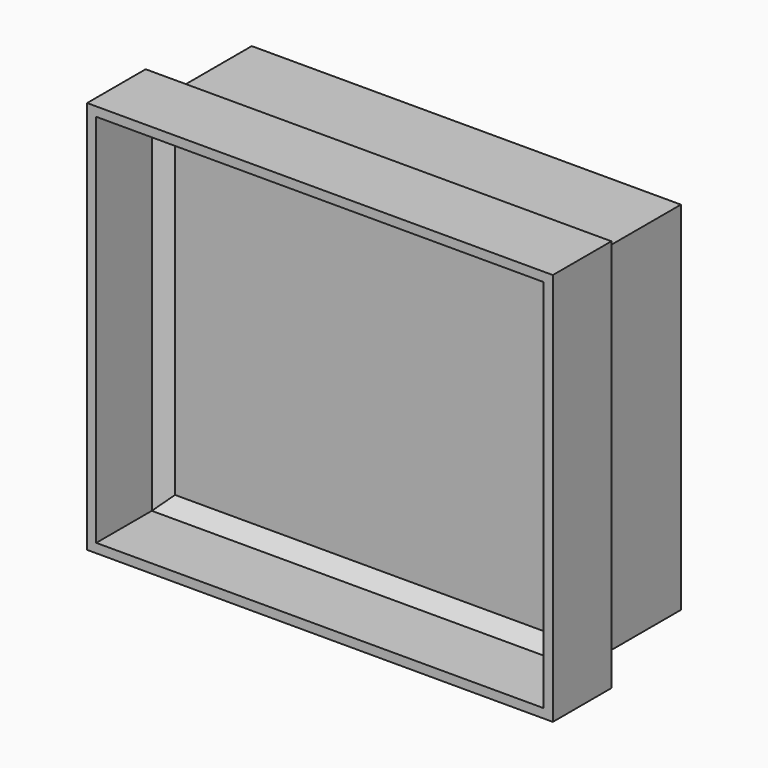
from build123d import *

# Parameters (mm, degrees)
F0_W     = 127.2814720869
F0_H     = 107.5093485415
F1_DEPTH = 25
F2_SIZE  = 5
F3_T     = -2.5
F4_W     = 117.2814720869
F4_H     = 97.5093485415
F5_DEPTH = 25


with BuildPart() as f1:
    # F0 (on Front) → F1 (new body)
    with BuildSketch(Plane.XZ):
        with Locations((-2.2627860308, -9.7043421119)):
            Rectangle(F0_W, F0_H)
    extrude(amount=F1_DEPTH)

    # F2
    f2_edges = [f1.edges().sort_by_distance(p)[0] for p in [
        (61.37795, 0, -9.704342),
        (-2.262786, 0, -63.459016),
        (-65.903522, 0, -9.704342),
        (-2.262786, 0, 44.050332),
    ]]
    chamfer(f2_edges, length=F2_SIZE)

    # F3
    f3_openings = [f1.faces().sort_by_distance(p)[0] for p in [
        (-2.262786, -25, -9.704342),
    ]]
    offset(amount=F3_T, openings=f3_openings)

    # F4 (on face) → F5 (join)
    with BuildSketch(Plane(origin=(0, 0, 0), x_dir=(-1, 0, 0), z_dir=(0, 1, 0))):
        with Locations((2.2627860308, -9.7043421119)):
            Rectangle(F4_W, F4_H)
    extrude(amount=F5_DEPTH)


solid = f1.part
